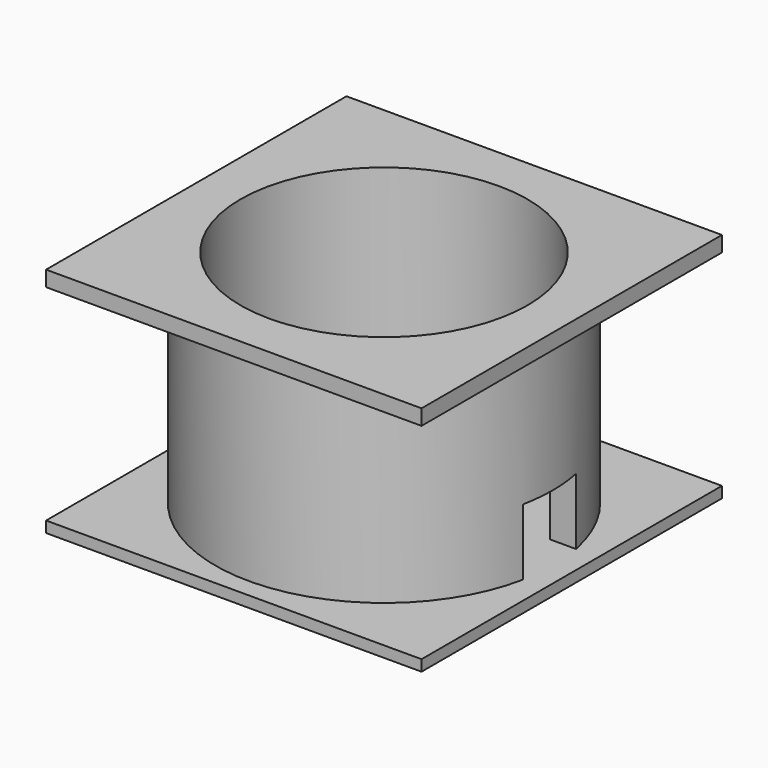
from build123d import *

# Parameters (mm, degrees)
F0_R     = 76.4311452349
F0_R_2   = 65
F1_DEPTH = 100
F0_W     = 170
F0_H     = 170
F2_DEPTH = 7
F3_W     = 170
F3_H     = 170
F4_DEPTH = 5
F6_DEPTH = 22.7544467966


with BuildPart() as f1:
    # F0 (on Top) → F1 (new body)
    with BuildSketch(Plane.XY):
        Circle(F0_R)
        Circle(F0_R_2, mode=Mode.SUBTRACT)
    extrude(amount=-F1_DEPTH)

    # F0 (on Top) → F2 (join)
    with BuildSketch(Plane.XY):
        Rectangle(F0_W, F0_H)
        Circle(F0_R, mode=Mode.SUBTRACT)
    extrude(amount=-F2_DEPTH)

    # F3 (on face) → F4 (join)
    with BuildSketch(Plane(origin=(0, 0, -100), x_dir=(1, 0, 0), z_dir=(0, 0, -1))):
        Rectangle(F3_W, F3_H)
    extrude(amount=F4_DEPTH)

    # F5 (on face) → F6 (cut, up to face)
    with BuildSketch(Plane.YZ.offset(85)):
        Polygon((-15, -100), (15, -100), (15, -70), (0, -70), (-15, -70), align=None)
    extrude(amount=-F6_DEPTH, mode=Mode.SUBTRACT)


solid = f1.part
